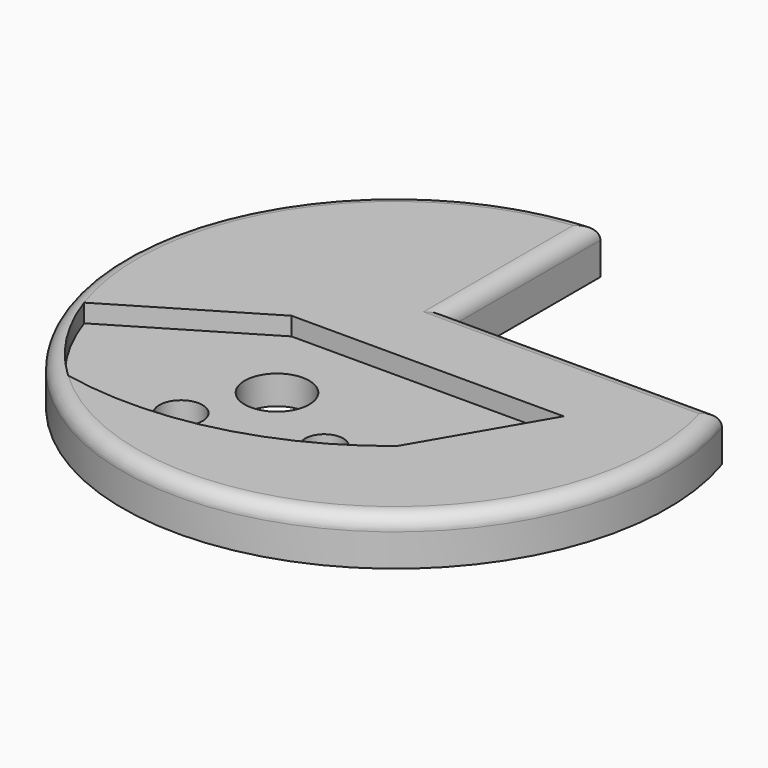
from build123d import *

# Parameters (mm, degrees)
F1_DEPTH = 7.874
F2_R     = 2.452841
F4_DEPTH = 3.048
F5_R     = 5.404397
F5_R_2   = 3.62081
F5_R_3   = 3.18203
F6_DEPTH = 25.4


with BuildPart() as f1:
    # F0 (on Top) → F1 (new body)
    with BuildSketch(Plane.XY):
        with BuildLine():
            Line((-2.126512, 14.08814), (-2.126512, 45.570451))
            ThreePointArc((-2.126512, 45.570451), (-25.951063, -37.519734), (43.390234, 14.08814))
            Line((43.390234, 14.08814), (-2.126512, 14.08814))
        make_face()
    extrude(amount=F1_DEPTH)

    # F2
    f2_edges = [f1.edges().sort_by_distance(p)[0] for p in [
        (20.631861, 14.08814, 7.874),
        (-2.126512, 29.829296, 7.874),
        (-25.951063, -37.519734, 7.874),
    ]]
    fillet(f2_edges, radius=F2_R)

    # F3 (on face) → F4 (cut)
    with BuildSketch(Plane.XY.offset(7.874)):
        with BuildLine():
            ThreePointArc((-40.823762, -14.029525), (-36.271678, -23.40454), (-29.605426, -31.415376))
            ThreePointArc((-29.605426, -31.415376), (-5.306065, -31.015874), (16.444359, -20.174399))
            Line((16.444359, -20.174399), (28.192235, 0))
            Line((28.192235, 0), (-17.349953, 0))
            Line((-17.349953, 0), (-40.823762, -14.029525))
        make_face()
    extrude(amount=-F4_DEPTH, mode=Mode.SUBTRACT)

    # F5 (on face) → F6 (cut)
    with BuildSketch(Plane.XY.offset(4.826)):
        with Locations((-8.902777, -13.591718)):
            Circle(F5_R)
        with Locations((-15.087833, -25.941195)):
            Circle(F5_R_2)
        with Locations((5.261666, -21.411046)):
            Circle(F5_R_3)
    extrude(amount=-F6_DEPTH, mode=Mode.SUBTRACT)


solid = f1.part
